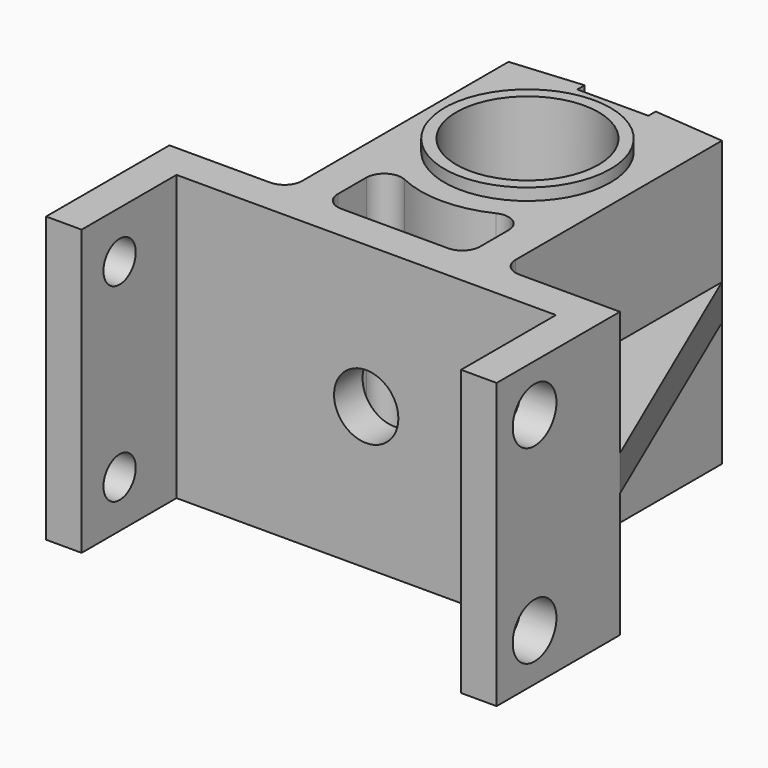
from build123d import *

# Parameters (mm, degrees)
F0_R           = 4.7625
F1_DEPTH       = 19.05
F2_R           = 1.8288
F3_DEPTH       = 2.38125
F4_R           = 1.35255
F5_DEPTH       = 2.38125
F8_DEPTH       = 1.190625
F9_R           = 5.55625
F9_R_2         = 4.7625
F11_DEPTH      = 0.79375
F11_DEPTH_BACK = 19.84375
F12_R          = 1.7272
F13_DEPTH      = 10.0554862042
F15_DEPTH      = 19.05
F16_R          = 2.15265
F17_DEPTH      = 2.38125
F18_R          = 1.190625


with BuildPart() as f1:
    # F0 (on Top) → F1 (new body)
    with BuildSketch(Plane.XY):
        Polygon((-12.7, -13.49375), (12.7, -13.49375), (12.7, -21.43125), (15.08125, -21.43125), (15.08125, -11.1125), (7.14375, -11.1125), (7.14375, 7.3428228204), (2.38125, 7.7594875805), (2.38125, 7.14375), (-2.38125, 7.14375), (-2.38125, 7.7594875805), (-7.14375, 7.3428228204), (-7.14375, -11.1125), (-15.08125, -11.1125), (-15.08125, -21.43125), (-12.7, -21.43125), align=None)
        Circle(F0_R, mode=Mode.SUBTRACT)
    extrude(amount=F1_DEPTH)

    # F2 (on face) → F3 (cut, through all)
    with BuildSketch(Plane.YZ.offset(15.08125)):
        with Locations((-18.25625, 15.875)):
            Circle(F2_R)
        with Locations((-18.25625, 3.175)):
            Circle(F2_R)
    extrude(amount=-F3_DEPTH, mode=Mode.SUBTRACT)

    # F4 (on face) → F5 (cut, through all)
    with BuildSketch(Plane(origin=(-15.08125, 0, 0), x_dir=(0, -1, 0), z_dir=(-1, 0, 0))):
        with Locations((18.25625, 3.175)):
            Circle(F4_R)
        with Locations((18.25625, 15.875)):
            Circle(F4_R)
    extrude(amount=-F5_DEPTH, mode=Mode.SUBTRACT)

    # F7 (on offset) → F8 (join, symmetric)
    with BuildSketch(Plane(origin=(0, 0, 9.525), x_dir=(1, 0, 0), z_dir=(0, 0, -1))):
        Polygon((-15.08125, 11.1125), (-7.14375, -7.3428228204), (-7.14375, 11.1125), align=None)
        Polygon((15.08125, 11.1125), (7.14375, 11.1125), (7.14375, -7.3428228204), align=None)
    extrude(amount=F8_DEPTH, both=True)

    # F9 (on face) → F11 (join, two sides)
    with BuildSketch(Plane(origin=(0, 0, 0), x_dir=(1, 0, 0), z_dir=(0, 0, -1))) as f11_sk:
        Circle(F9_R)
        Circle(F9_R_2, mode=Mode.SUBTRACT)
    extrude(amount=F11_DEPTH)
    extrude(f11_sk.sketch, amount=-F11_DEPTH_BACK)

    # F12 (on face) → F13 (cut, up to face)
    with BuildSketch(Plane.XZ.offset(13.49375)):
        with Locations((0, 9.525)):
            Circle(F12_R)
    extrude(amount=-F13_DEPTH, mode=Mode.SUBTRACT)

    # F14 (on face) → F15 (cut, through all)
    with BuildSketch(Plane.XY.offset(19.05)):
        with BuildLine():
            Line((-4.7625, -5.3246368714), (-4.7625, -11.1125))
            Line((-4.7625, -11.1125), (4.7625, -11.1125))
            Line((4.7625, -11.1125), (4.7625, -5.3246368714))
            ThreePointArc((4.7625, -5.3246368714), (0, -7.14375), (-4.7625, -5.3246368714))
        make_face()
    extrude(amount=-F15_DEPTH, mode=Mode.SUBTRACT)

    # F16 (on face) → F17 (cut, through all)
    with BuildSketch(Plane.XZ.offset(13.49375)):
        with Locations((0, 9.525)):
            Circle(F16_R)
    extrude(amount=-F17_DEPTH, mode=Mode.SUBTRACT)

    # F18
    f18_edges = [f1.edges().sort_by_distance(p)[0] for p in [
        (7.14375, -11.1125, 4.167187),
        (7.14375, -11.1125, 14.882812),
        (-7.14375, -11.1125, 4.167187),
        (-7.14375, -11.1125, 14.882812),
        (-4.7625, -11.1125, 9.525),
        (4.7625, -11.1125, 9.525),
        (4.7625, -5.324637, 9.525),
        (-4.7625, -5.324637, 9.525),
    ]]
    fillet(f18_edges, radius=F18_R)


solid = f1.part
